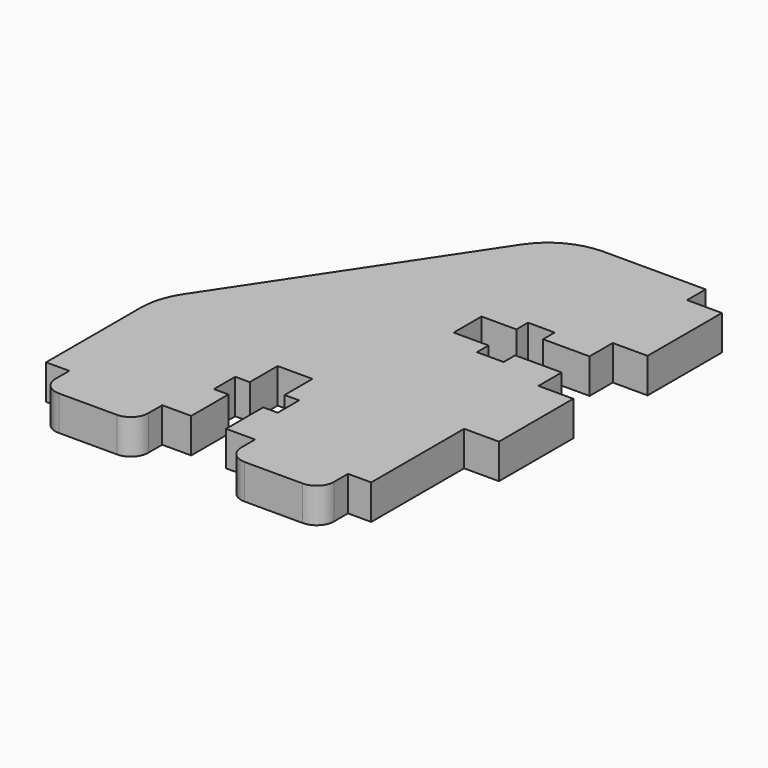
from build123d import *

# Parameters (mm, degrees)
PAD006_DEPTH = 3
FILLET010_R  = 6
FILLET_R     = 1.5


with BuildPart() as part:
    # Sketch005 → Pad006 (new body)
    with BuildSketch(Plane(origin=(-195.5, 0, 1.5), x_dir=(-1, 0, 0), z_dir=(0, 0, -1))):
        Polygon((0, 36), (12, 36), (28, 12), (28, 0), (26, 0), (26, -3), (18, -3), (18, 0), (15.5, 0), (15.5, 4), (16.75, 4), (16.75, 6.3), (15.5, 6.3), (15.5, 9.3), (12.5, 9.3), (12.5, 6.3), (11.25, 6.3), (11.25, 4), (12.5, 4), (12.5, 0), (10, 0), (10, -3), (2, -3), (2, 0), (0, 0), (0, 10), (-3, 10), (-3, 18), (0, 18), (0, 20.5), (4, 20.5), (4, 19.25), (6.3, 19.25), (6.3, 20.5), (9.3, 20.5), (9.3, 23.5), (6.3, 23.5), (6.3, 24.75), (4, 24.75), (4, 23.5), (0, 23.5), (0, 26), (-3, 26), (-3, 34), (0, 34), align=None)
    extrude(amount=PAD006_DEPTH)

    # Fillet010
    fillet010_edges = [part.edges().sort_by_distance(p)[0] for p in [
        (-207.5, 36, 0),
        (-223.5, 12, 0),
    ]]
    fillet(fillet010_edges, radius=FILLET010_R)

    # Fillet
    fillet_edges = [part.edges().sort_by_distance(p)[0] for p in [
        (-221.5, -3, 0),
        (-213.5, -3, 0),
        (-205.5, -3, 0),
        (-197.5, -3, 0),
    ]]
    fillet(fillet_edges, radius=FILLET_R)


solid = part.part
